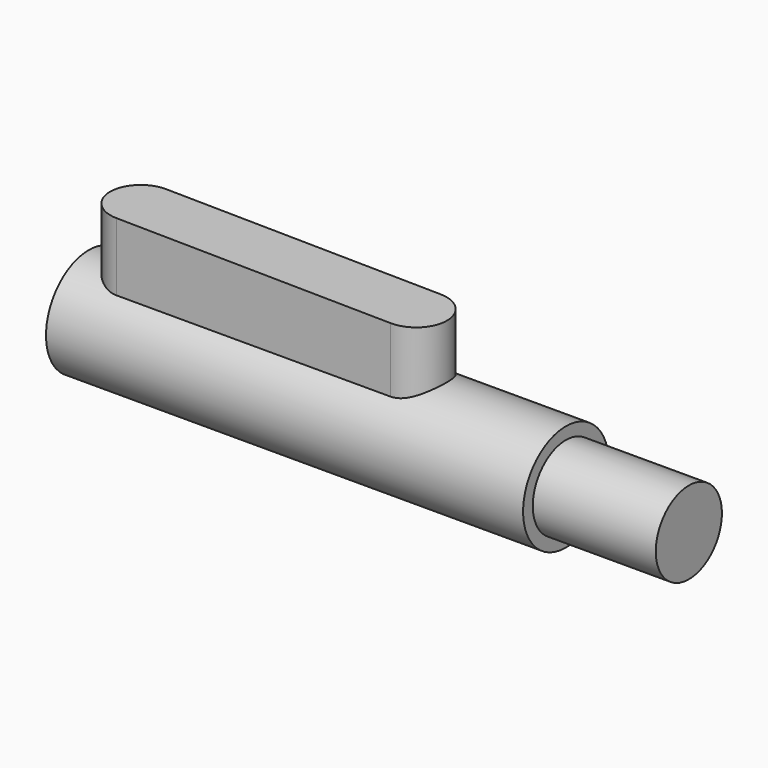
from build123d import *

# Parameters (mm, degrees)
F0_R     = 3.3655
F1_DEPTH = 30.0482
F2_R     = 2.6035
F3_DEPTH = 7.747
F5_DEPTH = 7.0358
F7_DEPTH = 5.335


with BuildPart() as f1:
    # F0 (on Right) → F1 (new body)
    with BuildSketch(Plane.YZ):
        Circle(F0_R)
    extrude(amount=-F1_DEPTH)

    # F2 (on face) → F3 (join)
    with BuildSketch(Plane.YZ):
        Circle(F2_R)
    extrude(amount=F3_DEPTH)

    # F4 (on Top) → F5 (join)
    with BuildSketch(Plane.XY):
        with BuildLine():
            Line((-9.4615, 1.9685), (-26.7335, 1.9685))
            ThreePointArc((-26.7335, 1.9685), (-28.702, 0), (-26.7335, -1.9685))
            Line((-26.7335, -1.9685), (-9.4615, -1.9685))
            ThreePointArc((-9.4615, -1.9685), (-7.493, 0), (-9.4615, 1.9685))
        make_face()
    extrude(amount=F5_DEPTH)

    # F6 (on face) → F7 (cut, through all)
    with BuildSketch(Plane.XZ.offset(1.9685)):
        Polygon((-7.493, 7.0358), (-28.702, 7.0358), (-7.493, 6.7818), align=None)
    extrude(amount=-F7_DEPTH, mode=Mode.SUBTRACT)


solid = f1.part
